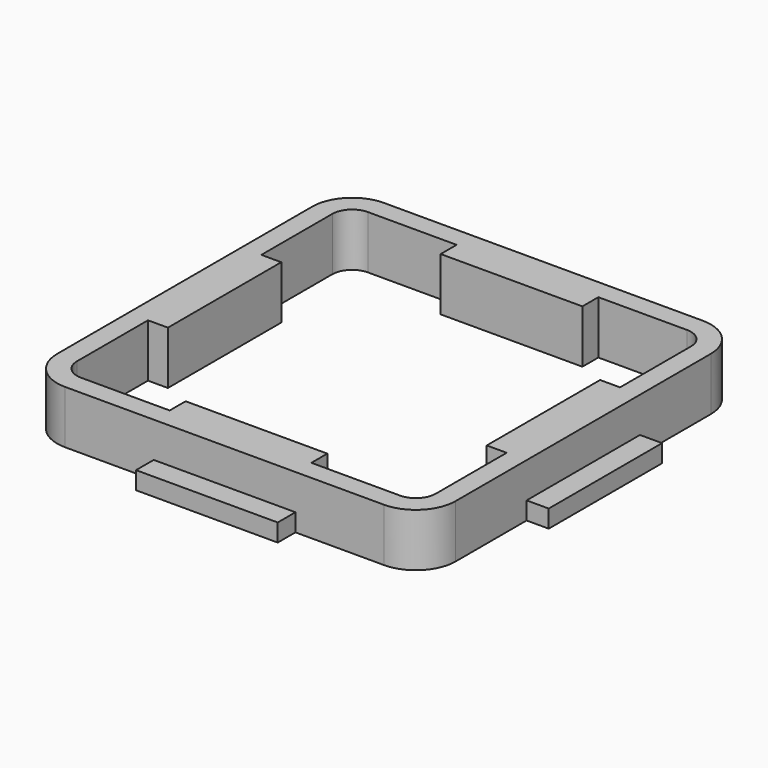
from build123d import *

# Parameters (mm, degrees)
F1_DEPTH = 15.24
F0_W     = 6.35
F0_H     = 20.32
F0_W_2   = 20.32
F0_H_2   = 6.35
F2_DEPTH = 5.08
F4_COUNT = 4


with BuildPart() as f1:
    # F0 (on Top) → F1 (new body)
    with BuildSketch(Plane.XY):
        with BuildLine():
            Line((0, 45.72), (0, 57.15))
            Line((0, 57.15), (-20.32, 57.15))
            Line((-20.32, 57.15), (-45.72, 57.15))
            ThreePointArc((-45.72, 57.15), (-53.802231, 53.802231), (-57.15, 45.72))
            Line((-57.15, 45.72), (-57.15, 20.32))
            Line((-57.15, 20.32), (-51.435, 20.32))
            Line((-51.435, 20.32), (-51.435, 45.759741))
            ThreePointArc((-51.435, 45.759741), (-49.758688, 49.78683), (-45.72, 51.435))
            Line((-45.72, 51.435), (-20.32, 51.435))
            Line((-20.32, 51.435), (-20.32, 45.72))
            Line((-20.32, 45.72), (0, 45.72))
        make_face()
        Polygon((-51.435, 20.32), (-57.15, 20.32), (-57.15, 0), (-45.72, 0), (-45.72, 20.32), align=None)
        with BuildLine():
            Line((0, 45.72), (0, 57.15))
            Line((0, 57.15), (-20.32, 57.15))
            Line((-20.32, 57.15), (-45.72, 57.15))
            ThreePointArc((-45.72, 57.15), (-53.802231, 53.802231), (-57.15, 45.72))
            Line((-57.15, 45.72), (-57.15, 20.32))
            Line((-57.15, 20.32), (-51.435, 20.32))
            Line((-51.435, 20.32), (-51.435, 45.759741))
            ThreePointArc((-51.435, 45.759741), (-49.758688, 49.78683), (-45.72, 51.435))
            Line((-45.72, 51.435), (-20.32, 51.435))
            Line((-20.32, 51.435), (-20.32, 45.72))
            Line((-20.32, 45.72), (0, 45.72))
        make_face()
    extrude(amount=F1_DEPTH)

    # F0 (on Top) → F2 (join)
    with BuildSketch(Plane.XY):
        with Locations((-60.325, 10.16)):
            Rectangle(F0_W, F0_H)
        with Locations((-10.16, 60.325)):
            Rectangle(F0_W_2, F0_H_2)
    extrude(amount=F2_DEPTH)

    # F4: F1 ×4 about axis
    f4_axis = Axis((0, 0, 51.399533), (0, 0, -1))


with BuildPart() as f1_1:
    add(f1.part)
    for i in range(1, F4_COUNT):
        add(f1.part.rotate(f4_axis, i * 360 / F4_COUNT))


solid = f1_1.part
